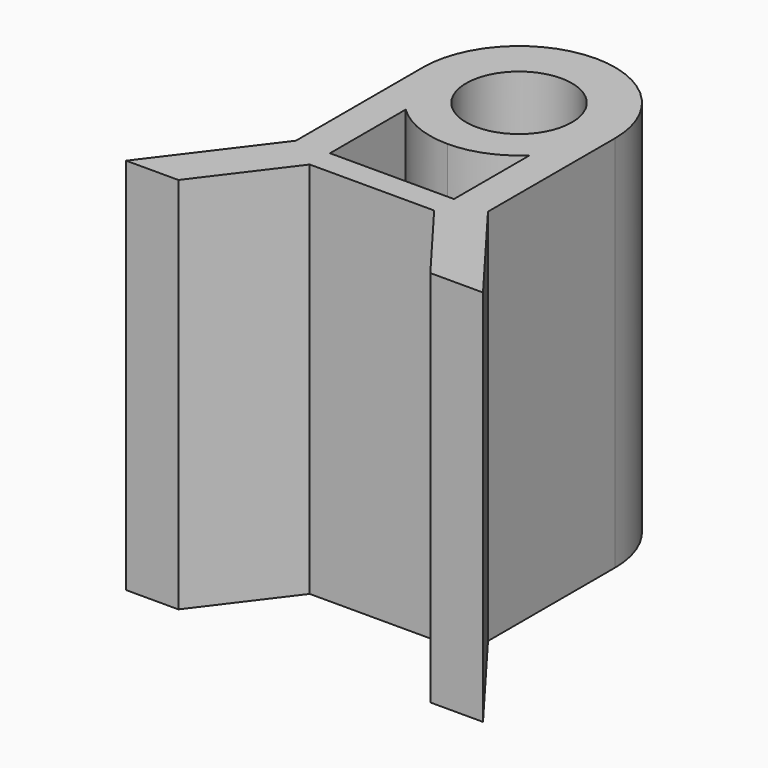
from build123d import *

# Parameters (mm, degrees)
F0_R     = 4.445
F1_DEPTH = 31.75
F3_DEPTH = 31.751


with BuildPart() as f1:
    # F0 (on Top) → F1 (new body)
    with BuildSketch(Plane.XY):
        with BuildLine():
            ThreePointArc((8.0645, 0), (5.702463, 5.702463), (0, 8.0645))
            ThreePointArc((0, 8.0645), (-5.702463, 5.702463), (-8.0645, 0))
            Line((-8.0645, 0), (-8.0645, -13.342164))
            Line((-8.0645, -13.342164), (-14.986, -22.517859))
            Line((-14.986, -22.517859), (0, -22.517859))
            Line((0, -22.517859), (14.986, -22.517859))
            Line((14.986, -22.517859), (8.0645, -13.342164))
            Line((8.0645, -13.342164), (8.0645, 0))
        make_face()
        with BuildLine():
            Line((0, -13.342164), (-5.207, -13.342164))
            Line((-5.207, -13.342164), (-5.207, -5.388154))
            ThreePointArc((-5.207, -5.388154), (-2.808168, -6.946887), (0, -7.493))
            ThreePointArc((0, -7.493), (2.808168, -6.946887), (5.207, -5.388154))
            Line((5.207, -5.388154), (5.207, -13.342164))
            Line((5.207, -13.342164), (0, -13.342164))
        make_face(mode=Mode.SUBTRACT)
        Circle(F0_R, mode=Mode.SUBTRACT)
    extrude(amount=F1_DEPTH)

    # F2 (on face) → F3 (cut, through all)
    with BuildSketch(Plane.XY.offset(31.75)):
        Polygon((5.207, -15.420636), (-5.2451, -15.420636), (-10.598746, -22.517859), (10.560646, -22.517859), align=None)
    extrude(amount=-F3_DEPTH, mode=Mode.SUBTRACT)


solid = f1.part
